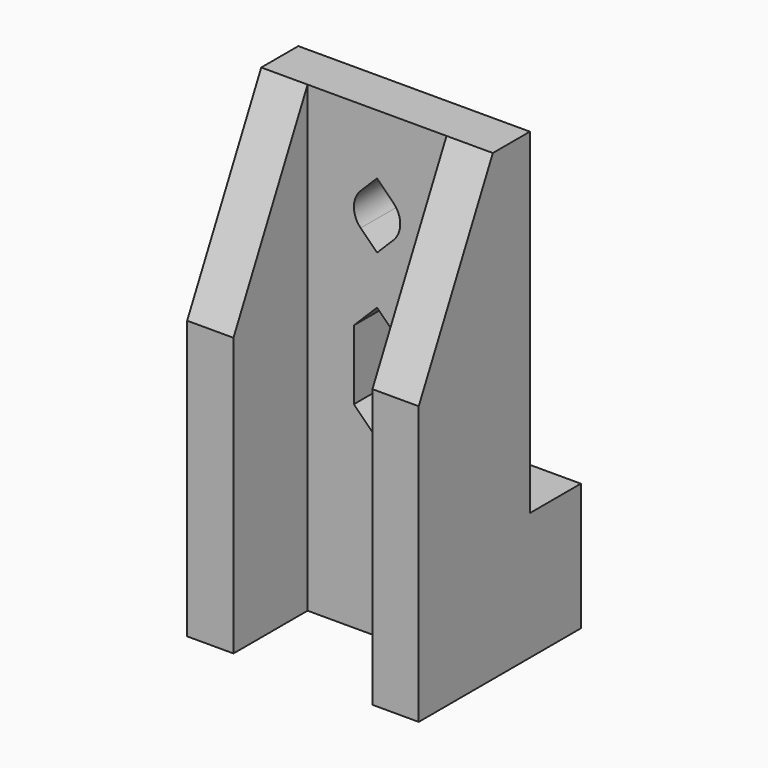
from build123d import *

# Parameters (mm, degrees)
F0_W      = 25.4
F0_H      = 12.065
F0_W_2    = 15.24
F0_H_2    = 5.08
F1_DEPTH  = 101.6
F6_W      = 5.08
F6_H      = 10.16
F2_DEPTH  = 101.6
F3_W      = 6.985
F3_H      = 87.63
F7_DEPTH  = 25.4
F8_DEPTH  = 25.4
F9_R      = 2.54
F5_DEPTH  = 5.08
F11_DEPTH = 5.08


with BuildPart() as f1:
    # F0 (on Top) → F1 (new body)
    with BuildSketch(Plane.XY):
        with Locations((2.554662, -10.724223)):
            Rectangle(F0_W, F0_H)
        with Locations((2.554662, -9.136723)):
            Rectangle(F0_W_2, F0_H_2, mode=Mode.SUBTRACT)
    extrude(amount=F1_DEPTH)

    # F6 (on Top) → F2 (join, through all)
    with BuildSketch(Plane.XY):
        with Locations((-7.605338, -21.836723)):
            Rectangle(F6_W, F6_H)
        with Locations((12.714662, -21.836723)):
            Rectangle(F6_W, F6_H)
    extrude(amount=F2_DEPTH)

    # F3 (on face) → F7 (cut, through all)
    with BuildSketch(Plane.YZ.offset(15.254662)):
        with Locations((-8.184223, 57.785)):
            Rectangle(F3_W, F3_H)
    extrude(amount=-F7_DEPTH, mode=Mode.SUBTRACT)

    # F4 (on face) → F8 (cut, through all)
    with BuildSketch(Plane.YZ.offset(15.254662)):
        Polygon((-11.676723, 101.6), (-26.916723, 101.6), (-26.916723, 30.48), (-16.756723, 50.8), (-11.676723, 50.8), align=None)
    extrude(amount=-F8_DEPTH, mode=Mode.SUBTRACT)

    # F9 (on face) → F5 (cut, through all)
    with BuildSketch(Plane(origin=(0, -11.676723, 0), x_dir=(-1, 0, 0), z_dir=(0, 1, 0))):
        with Locations((-2.554662, 40.64)):
            Circle(F9_R)
        with Locations((-2.554662, 25.4)):
            Circle(F9_R)
    extrude(amount=-F5_DEPTH, mode=Mode.SUBTRACT)

    # F10 (on face) → F11 (cut, through all)
    with BuildSketch(Plane(origin=(0, -11.676723, 0), x_dir=(-1, 0, 0), z_dir=(0, 1, 0))):
        Polygon((-0.014662, 21.59), (-0.014662, 29.21), (-2.554662, 31.75), (-5.094662, 29.21), (-5.094662, 21.59), (-2.554662, 19.05), align=None)
        Polygon((-2.554662, 44.232102), (-4.350713, 42.436051), (-0.758611, 42.436051), align=None)
        Polygon((-0.758611, 38.843949), (-4.350713, 38.843949), (-2.554662, 37.047898), align=None)
    extrude(amount=-F11_DEPTH, mode=Mode.SUBTRACT)


solid = f1.part
